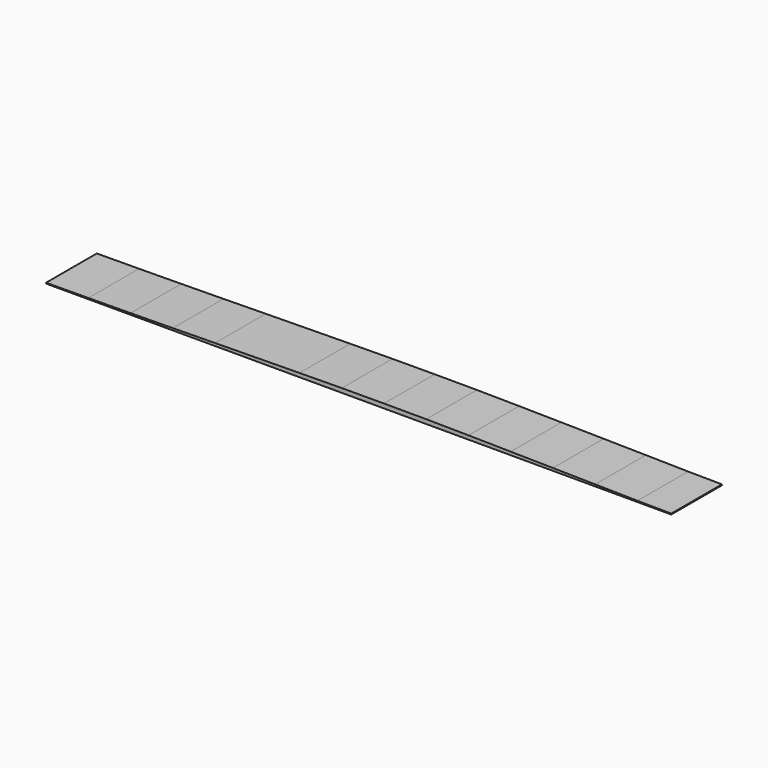
from build123d import *

# Parameters (mm, degrees)
F1_DEPTH = 150


with BuildPart() as f1:
    # F0 (on Front) → F1 (new body)
    with BuildSketch(Plane.XZ):
        Polygon((-740, -3.2), (-740, -5.15), (740, -5.15), (740, -3.15), (660, -2.45), (560, -0.75), (460, 0.85), (360, 2.4), (260, 3.85), (160, 4.95), (60, 5.15), (-40, 4.8), (-140, 3.8), (-340, 1.15), (-440, -0.3), (-540, -1.56), (-640, -2.52), align=None)
    extrude(amount=F1_DEPTH)


solid = f1.part
